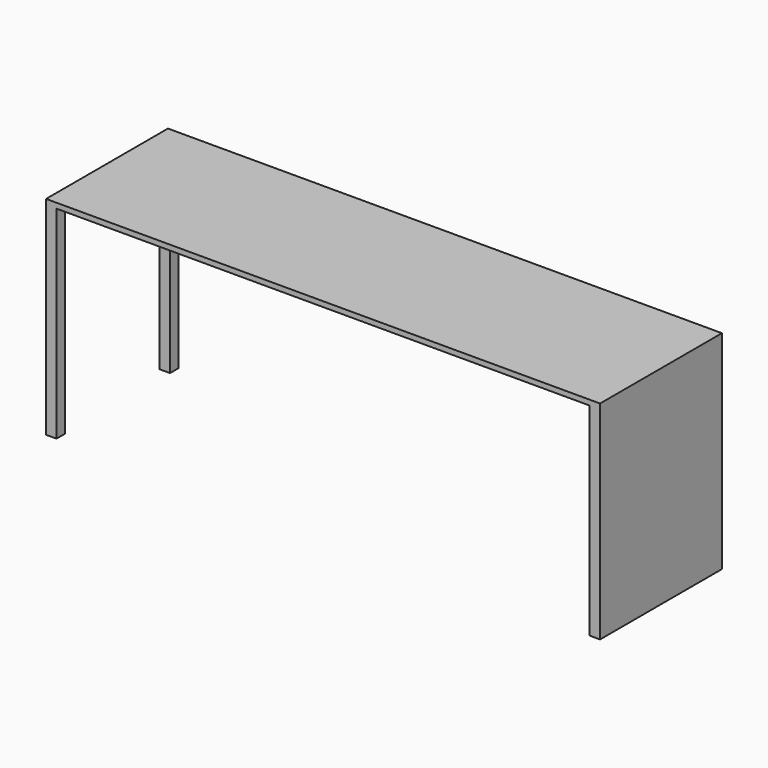
from build123d import *

# Parameters (mm, degrees)
F1_W     = 2032
F1_H     = 558.8
F2_DEPTH = 19.05
F3_W     = 38.1
F3_H     = 38.1
F3_H_2   = 558.8
F4_DEPTH = 742.95


with BuildPart() as f2:
    # F1 (on offset) → F2 (new body)
    with BuildSketch(Plane.XY.offset(762)):
        with Locations((1016, 279.4)):
            Rectangle(F1_W, F1_H)
    extrude(amount=-F2_DEPTH)

    # F3 (on face) → F4 (join, through all)
    with BuildSketch(Plane(origin=(0, 0, 742.95), x_dir=(1, 0, 0), z_dir=(0, 0, -1))):
        with Locations((19.05, -19.05)):
            Rectangle(F3_W, F3_H)
        with Locations((19.05, -539.75)):
            Rectangle(F3_W, F3_H)
        with Locations((2012.95, -279.4)):
            Rectangle(F3_W, F3_H_2)
    extrude(amount=F4_DEPTH)


solid = f2.part
